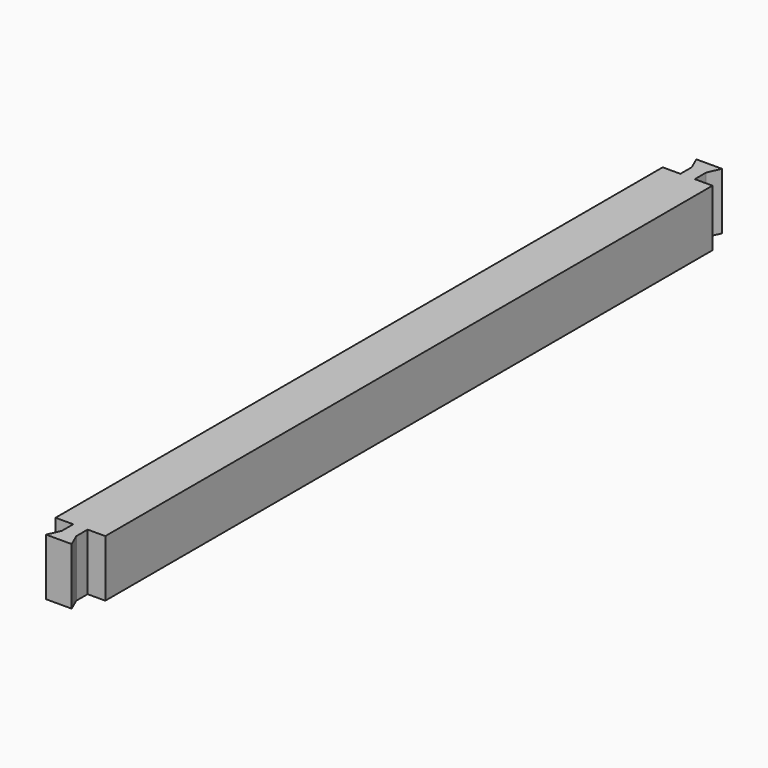
from build123d import *

# Parameters (mm, degrees)
F2_DEPTH = 20


with BuildPart() as f2:
    # F1 (on face) → F2 (new body)
    with BuildSketch(Plane.XY):
        Polygon((-2.529652, -1.007926), (0, -1.007926), (4.5, -1.007926), (2.529652, 3.474864), (2.529652, 8.463763), (8.745844, 8.463763), (8.745844, 13.700863), (8.745844, 141.889864), (-8.745844, 141.889864), (-8.745844, 13.700863), (-8.745844, 8.463763), (-2.529652, 8.463763), (-2.529652, 3.474864), align=None)
        Polygon((-4.5, -1.007926), (-2.529652, -1.007926), (-2.529652, 3.474864), align=None)
        Polygon((-8.745844, 141.889864), (8.745844, 141.889864), (8.745844, 270.078865), (8.745844, 275.315966), (2.529652, 275.315966), (2.529652, 280.304864), (4.5, 284.787654), (0, 284.787654), (-4.5, 284.787654), (-2.529652, 280.304864), (-2.529652, 275.315966), (-8.745844, 275.315966), (-8.745844, 270.078865), align=None)
    extrude(amount=F2_DEPTH)


solid = f2.part
